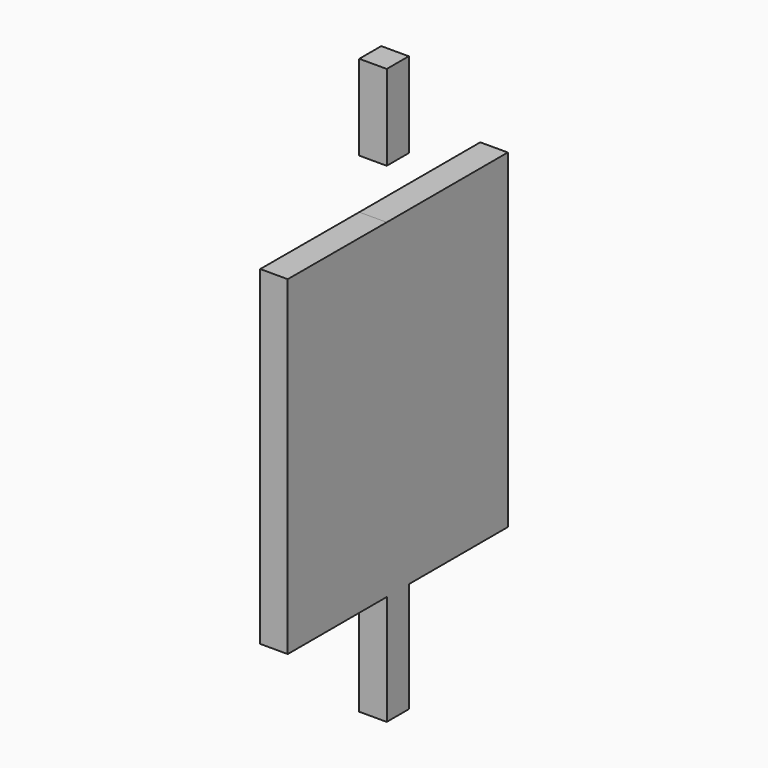
from build123d import *

# Parameters (mm, degrees)
F0_W     = 5
F0_H     = 15.50002
F1_DEPTH = 5


with BuildPart() as f1:
    # F0 (on Right) → F1 (new body)
    with BuildSketch(Plane.YZ):
        Polygon((22.5, -0.043439), (0, 0), (0, -60), (12, -60), (12.401176, -60), (22.5, -60), (22.5, -80), (27.5, -80), (27.5, -60), (50, -60), (50, -0.043439), align=None)
        with Locations((25, 16.749971)):
            Rectangle(F0_W, F0_H)
    extrude(amount=F1_DEPTH)


solid = f1.part
